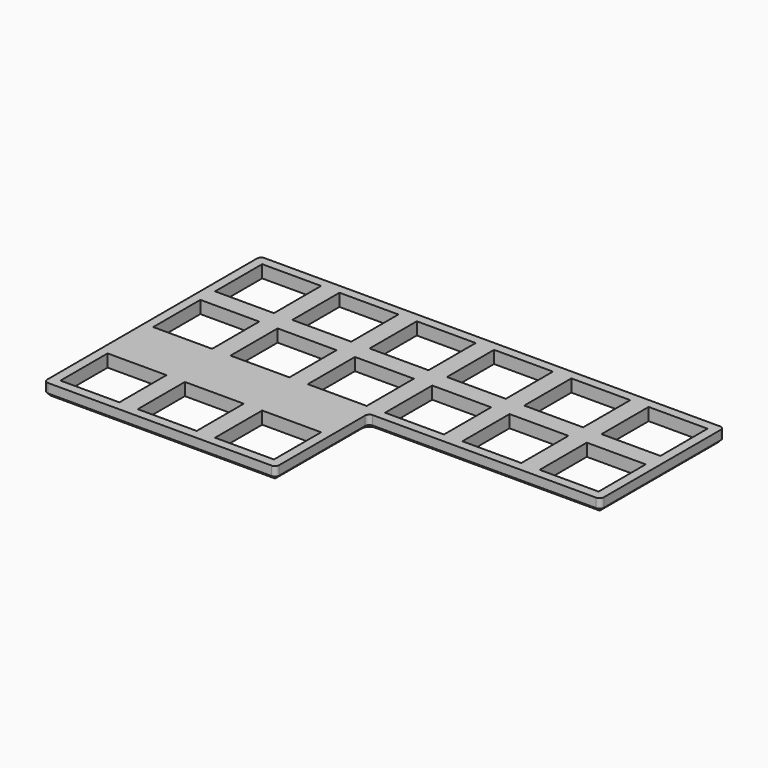
from build123d import *

# Parameters (mm, degrees)
SKETCH006_W     = 14.1
SKETCH006_H     = 14.1
PAD003_DEPTH    = 3
FILLET_R        = 1
CHAMFER001_SIZE = 0.8


with BuildPart() as part:
    # Sketch006 → Pad003 (new body)
    with BuildSketch(Plane.XY):
        Polygon((0, 0), (0, 64.75), (111, 64.75), (111, 27.75), (55.5, 27.75), (55.5, 0), align=None)
        with Locations((27.75, 9.25)):
            Rectangle(SKETCH006_W, SKETCH006_H, mode=Mode.SUBTRACT)
        with Locations((27.75, 55.5)):
            Rectangle(SKETCH006_W, SKETCH006_H, mode=Mode.SUBTRACT)
        with Locations((27.75, 37)):
            Rectangle(SKETCH006_W, SKETCH006_H, mode=Mode.SUBTRACT)
        with Locations((46.25, 55.5)):
            Rectangle(SKETCH006_W, SKETCH006_H, mode=Mode.SUBTRACT)
        with Locations((64.75, 55.5)):
            Rectangle(SKETCH006_W, SKETCH006_H, mode=Mode.SUBTRACT)
        with Locations((83.25, 55.5)):
            Rectangle(SKETCH006_W, SKETCH006_H, mode=Mode.SUBTRACT)
        with Locations((101.75, 55.5)):
            Rectangle(SKETCH006_W, SKETCH006_H, mode=Mode.SUBTRACT)
        with Locations((101.75, 37)):
            Rectangle(SKETCH006_W, SKETCH006_H, mode=Mode.SUBTRACT)
        with Locations((83.25, 37)):
            Rectangle(SKETCH006_W, SKETCH006_H, mode=Mode.SUBTRACT)
        with Locations((64.75, 37)):
            Rectangle(SKETCH006_W, SKETCH006_H, mode=Mode.SUBTRACT)
        with Locations((46.25, 37)):
            Rectangle(SKETCH006_W, SKETCH006_H, mode=Mode.SUBTRACT)
        with Locations((9.25, 55.5)):
            Rectangle(SKETCH006_W, SKETCH006_H, mode=Mode.SUBTRACT)
        with Locations((9.25, 37)):
            Rectangle(SKETCH006_W, SKETCH006_H, mode=Mode.SUBTRACT)
        with Locations((9.25, 9.25)):
            Rectangle(SKETCH006_W, SKETCH006_H, mode=Mode.SUBTRACT)
        with Locations((46.25, 9.25)):
            Rectangle(SKETCH006_W, SKETCH006_H, mode=Mode.SUBTRACT)
    extrude(amount=PAD003_DEPTH)

    # Fillet
    fillet_edges = [part.edges().sort_by_distance(p)[0] for p in [
        (55.5, 0, 1.5),
        (55.5, 27.75, 1.5),
        (111, 27.75, 1.5),
        (0, 0, 1.5),
        (0, 64.75, 1.5),
        (111, 64.75, 1.5),
    ]]
    fillet(fillet_edges, radius=FILLET_R)

    # Chamfer001
    chamfer001_edges = [part.edges().sort_by_distance(p)[0] for p in [
        (83.25, 27.75, 0),
    ]]
    chamfer(chamfer001_edges, length=CHAMFER001_SIZE)


with BuildPart() as part_1:
    # Body002 placement: moved
    add(part.part.moved(Location((18, 0.5, 6.6))))


solid = part_1.part
